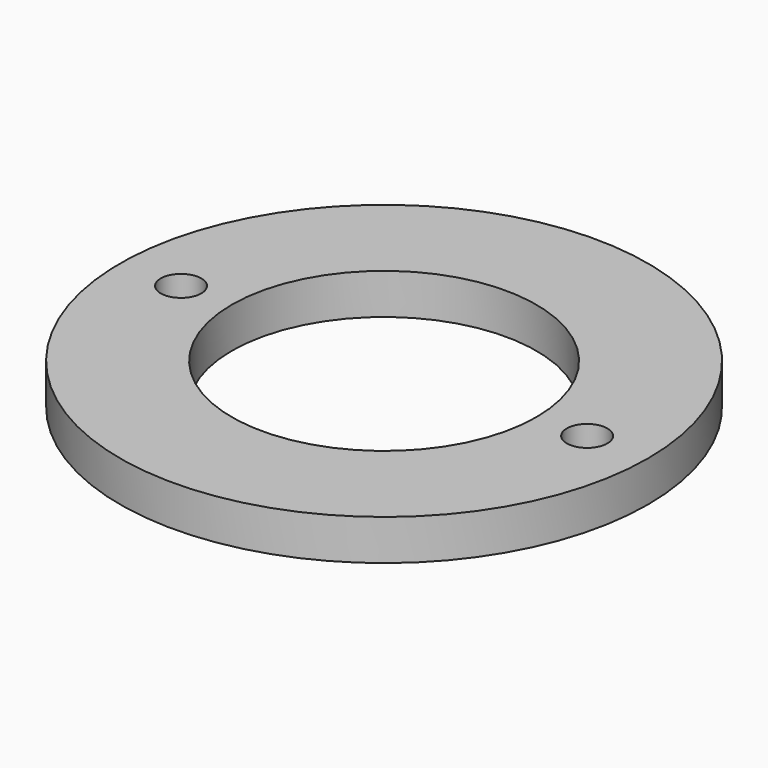
from build123d import *

# Parameters (mm, degrees)
SKETCH_R      = 13
PAD_DEPTH     = 2
SKETCH001_R   = 7.5
SKETCH001_R_2 = 1
POCKET_DEPTH  = 5


with BuildPart() as part:
    # Sketch → Pad (new body)
    with BuildSketch(Plane.XY):
        Circle(SKETCH_R)
    extrude(amount=PAD_DEPTH)

    # Sketch001 → Pocket (cut)
    with BuildSketch(Plane.XY.offset(2)):
        Circle(SKETCH001_R)
        with Locations((-10, 0)):
            Circle(SKETCH001_R_2)
        with Locations((10, 0)):
            Circle(SKETCH001_R_2)
    extrude(amount=-POCKET_DEPTH, mode=Mode.SUBTRACT)


solid = part.part
